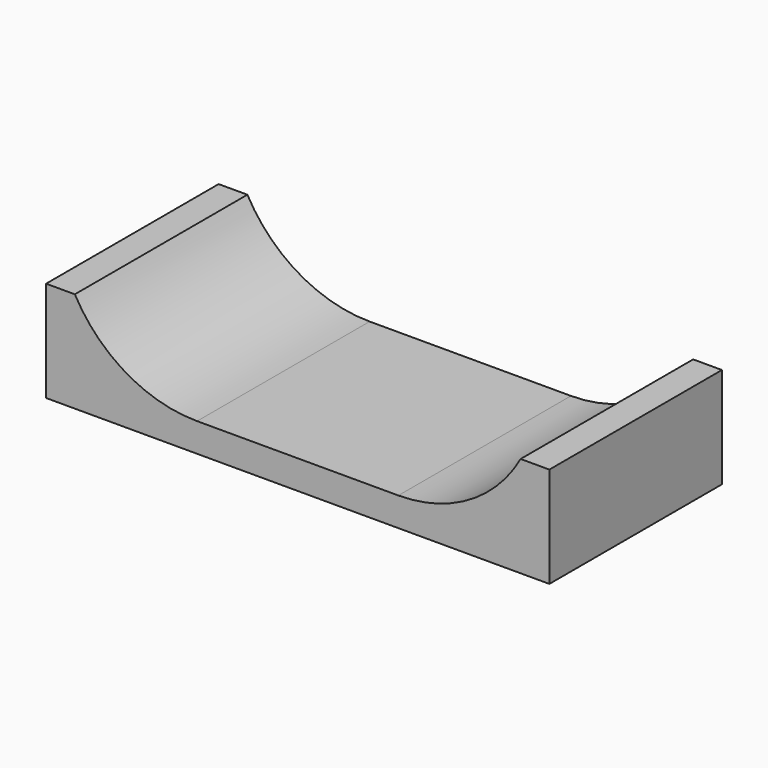
from build123d import *

# Parameters (mm, degrees)
F1_DEPTH = 150


with BuildPart() as f1:
    # F0 (on Front) → F1 (new body)
    with BuildSketch(Plane.XZ):
        with BuildLine():
            Line((-43.11781, 78.090709), (-63.11781, 78.090709))
            Line((-63.11781, 78.090709), (-63.11781, 8.090709))
            Line((-63.11781, 8.090709), (286.88219, 8.090709))
            Line((286.88219, 8.090709), (286.88219, 78.090709))
            Line((286.88219, 78.090709), (266.88219, 78.090709))
            ThreePointArc((266.88219, 78.090709), (231.189898, 41.517607), (181.88219, 28.090709))
            Line((181.88219, 28.090709), (111.88219, 28.090709))
            Line((111.88219, 28.090709), (41.88219, 28.090709))
            ThreePointArc((41.88219, 28.090709), (-7.425517, 41.517607), (-43.11781, 78.090709))
        make_face()
    extrude(amount=F1_DEPTH)


solid = f1.part
